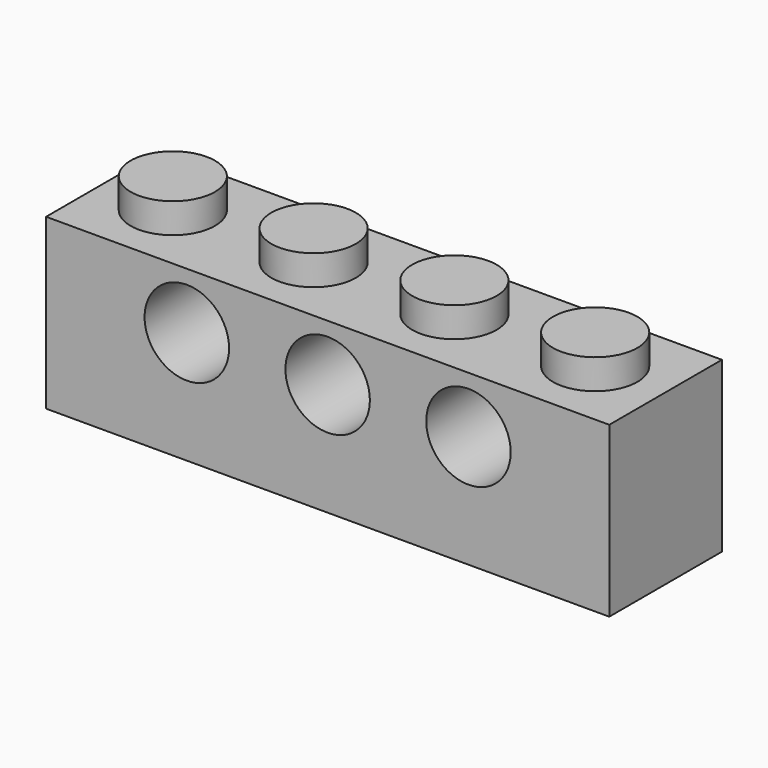
from build123d import *

# Parameters (mm, degrees)
F1_DEPTH  = 8
F3_W      = 8
F3_H      = 8
F3_R      = 2.4
F4_DEPTH  = 1.7
F5_R      = 2.4
F6_DEPTH  = 1.7
F11_R     = 2.4
F12_DEPTH = 25.4


with BuildPart() as f1:
    # F0 (on Front) → F1 (new body)
    with BuildSketch(Plane.XZ):
        Polygon((-2.4, 9.6), (-4, 9.6), (-4, 0), (4, 0), (4, 9.6), (2.4, 9.6), (2.4, 11.3), (-2.4, 11.3), align=None)
    extrude(amount=F1_DEPTH)

    # F3 (on plane+point) → F4 (cut, through all)
    with BuildSketch(Plane.XY.offset(11.3)):
        with Locations((0, -4)):
            Rectangle(F3_W, F3_H)
        with Locations((0, -4)):
            Circle(F3_R, mode=Mode.SUBTRACT)
    extrude(amount=-F4_DEPTH, mode=Mode.SUBTRACT)

    # F5 (on Top) → F6 (cut)
    with BuildSketch(Plane.XY):
        with Locations((0, -4)):
            Circle(F5_R)
    extrude(amount=F6_DEPTH, mode=Mode.SUBTRACT)

    # F8: F1 across plane


with BuildPart() as f1_1:
    add(f1.part)
    add(f1.part.mirror(Plane.YZ.offset(4)))

    # F10: F1 across plane


with BuildPart() as f1_2:
    add(f1_1.part)
    add(f1_1.part.mirror(Plane.YZ.offset(12)))

    # F11 (on Front) → F12 (cut)
    with BuildSketch(Plane.XZ):
        with Locations((19.999, 6.4008)):
            Circle(F11_R)
        with Locations((11.998, 6.4008)):
            Circle(F11_R)
        with Locations((3.997, 6.4008)):
            Circle(F11_R)
    extrude(amount=F12_DEPTH, mode=Mode.SUBTRACT)


solid = f1_2.part
